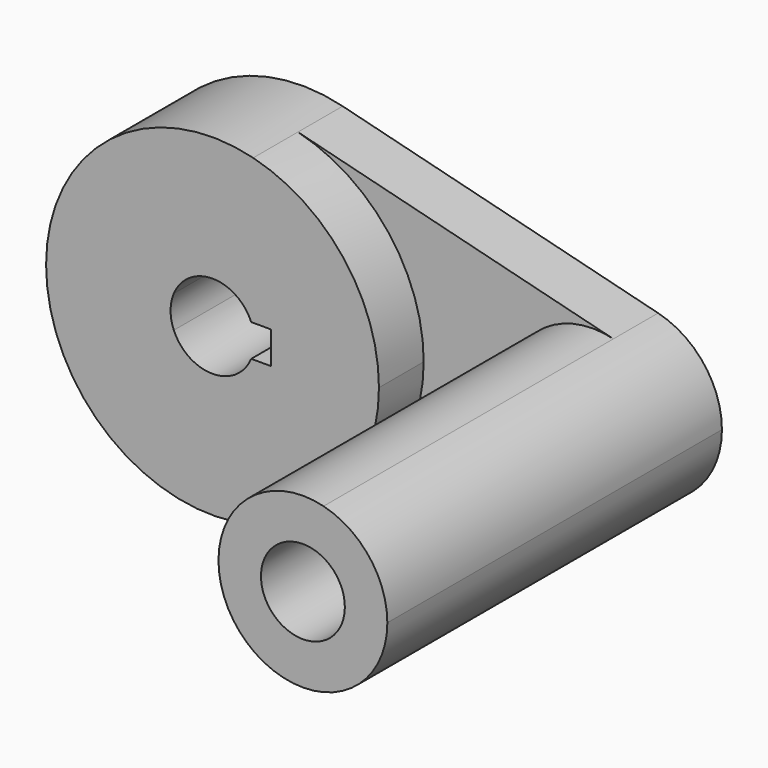
from build123d import *

# Parameters (mm, degrees)
F1_DEPTH = 25.4
F2_DEPTH = 12.7
F0_R     = 9.525
F3_DEPTH = 94.98793


with BuildPart() as f1:
    # F0 (on Front) → F1 (new body)
    with BuildSketch(Plane.XZ):
        with BuildLine():
            ThreePointArc((9.239379, -36.65417), (29.817356, -23.234017), (37.800718, 0))
            ThreePointArc((37.800718, 0), (29.817356, 23.234017), (9.239379, 36.65417))
            ThreePointArc((9.239379, 36.65417), (-37.800718, 0), (9.239379, -36.65417))
        make_face()
        with BuildLine():
            ThreePointArc((-8.789045, 3.671282), (0, 9.525), (8.789045, 3.671282))
            Line((8.789045, 3.671282), (13.308408, 3.671282))
            Line((13.308408, 3.671282), (13.308408, -3.671282))
            Line((13.308408, -3.671282), (8.789045, -3.671282))
            ThreePointArc((8.789045, -3.671282), (0, -9.525), (-8.789045, -3.671282))
            Line((-8.789045, -3.671282), (-13.308408, -3.671282))
            Line((-13.308408, -3.671282), (-13.308408, 3.671282))
            Line((-13.308408, 3.671282), (-8.789045, 3.671282))
        make_face(mode=Mode.SUBTRACT)
        with BuildLine():
            ThreePointArc((-8.789045, -3.671282), (-9.525, 0), (-8.789045, 3.671282))
            Line((-8.789045, 3.671282), (-13.308408, 3.671282))
            Line((-13.308408, 3.671282), (-13.308408, -3.671282))
            Line((-13.308408, -3.671282), (-8.789045, -3.671282))
        make_face()
    extrude(amount=F1_DEPTH)

    # F0 (on Front) → F2 (join)
    with BuildSketch(Plane.XZ):
        with BuildLine():
            ThreePointArc((9.239379, 36.65417), (29.817356, 23.234017), (37.800718, 0))
            ThreePointArc((37.800718, 0), (29.817356, -23.234017), (9.239379, -36.65417))
            Line((9.239379, -36.65417), (80.886979, -18.594032))
            ThreePointArc((80.886979, -18.594032), (57.024344, 0), (80.886979, 18.594032))
            Line((80.886979, 18.594032), (9.239379, 36.65417))
        make_face()
    extrude(amount=F2_DEPTH)

    # F0 (on Front) → F3 (join)
    with BuildSketch(Plane.XZ):
        with BuildLine():
            ThreePointArc((95.375656, 0), (91.325834, 11.786219), (80.886979, 18.594032))
            ThreePointArc((80.886979, 18.594032), (57.024344, 0), (80.886979, -18.594032))
            ThreePointArc((80.886979, -18.594032), (91.325834, -11.786219), (95.375656, 0))
        make_face()
        with Locations((76.2, 0)):
            Circle(F0_R, mode=Mode.SUBTRACT)
    extrude(amount=F3_DEPTH)


solid = f1.part
